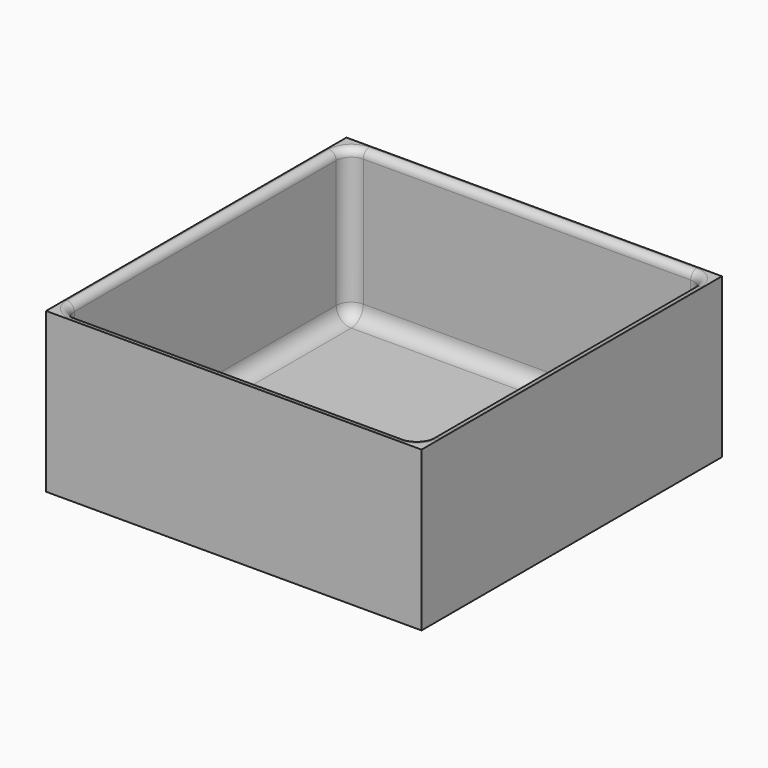
from build123d import *

# Parameters (mm, degrees)
F0_W     = 63.5
F0_H     = 63.5
F1_DEPTH = 1.524
F2_W     = 63.5
F2_H     = 63.5
F2_W_2   = 60.452
F2_H_2   = 60.452
F3_DEPTH = 25.4
F4_R     = 2.54
F5_R     = 1.27


with BuildPart() as f1:
    # F0 (on Top) → F1 (new body)
    with BuildSketch(Plane.XY):
        Rectangle(F0_W, F0_H)
    extrude(amount=F1_DEPTH)

    # F2 (on face) → F3 (join)
    with BuildSketch(Plane.XY.offset(1.524)):
        Rectangle(F2_W, F2_H)
        Rectangle(F2_W_2, F2_H_2, mode=Mode.SUBTRACT)
    extrude(amount=F3_DEPTH)

    # F4
    f4_edges = [f1.edges().sort_by_distance(p)[0] for p in [
        (0, 30.226, 1.524),
        (30.226, 0, 1.524),
        (0, -30.226, 1.524),
        (-30.226, 0, 1.524),
        (-30.226, 30.226, 14.224),
        (30.226, 30.226, 14.224),
        (30.226, -30.226, 14.224),
        (-30.226, -30.226, 14.224),
    ]]
    fillet(f4_edges, radius=F4_R)

    # F5
    f5_edges = [f1.edges().sort_by_distance(p)[0] for p in [
        (-30.226, 0, 26.924),
    ]]
    fillet(f5_edges, radius=F5_R)


solid = f1.part
